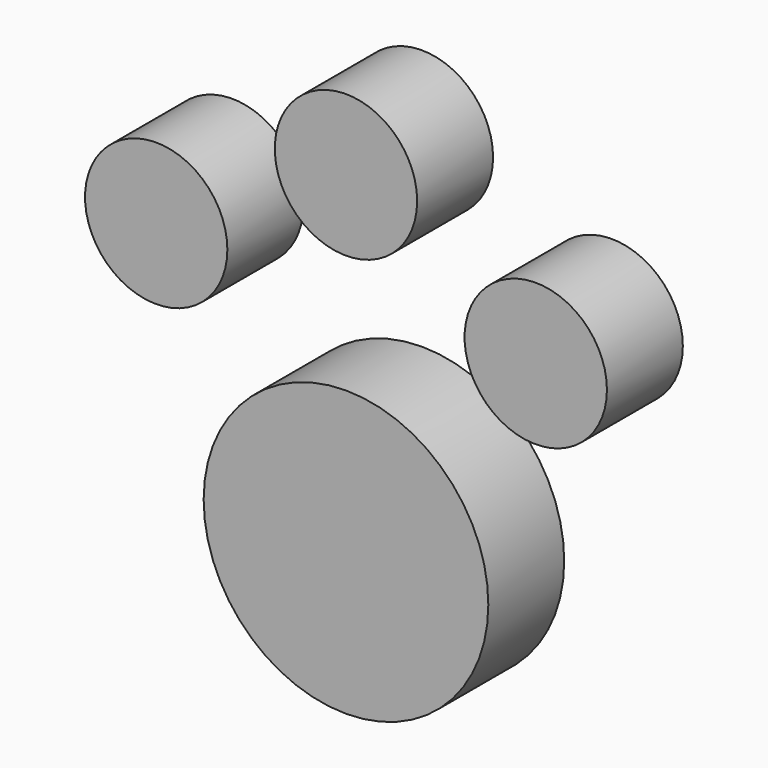
from build123d import *

# Parameters (mm, degrees)
F0_R     = 19.05
F0_R_2   = 9.525
F1_DEPTH = 12.7


with BuildPart() as f1:
    # F0 (on Front) → F1 (new body)
    with BuildSketch(Plane.XZ):
        Circle(F0_R)
        with Locations((-25.4, 30.48)):
            Circle(F0_R_2)
        with Locations((0, 44.45)):
            Circle(F0_R_2)
        with Locations((25.4, 30.48)):
            Circle(F0_R_2)
    extrude(amount=F1_DEPTH)


solid = f1.part
